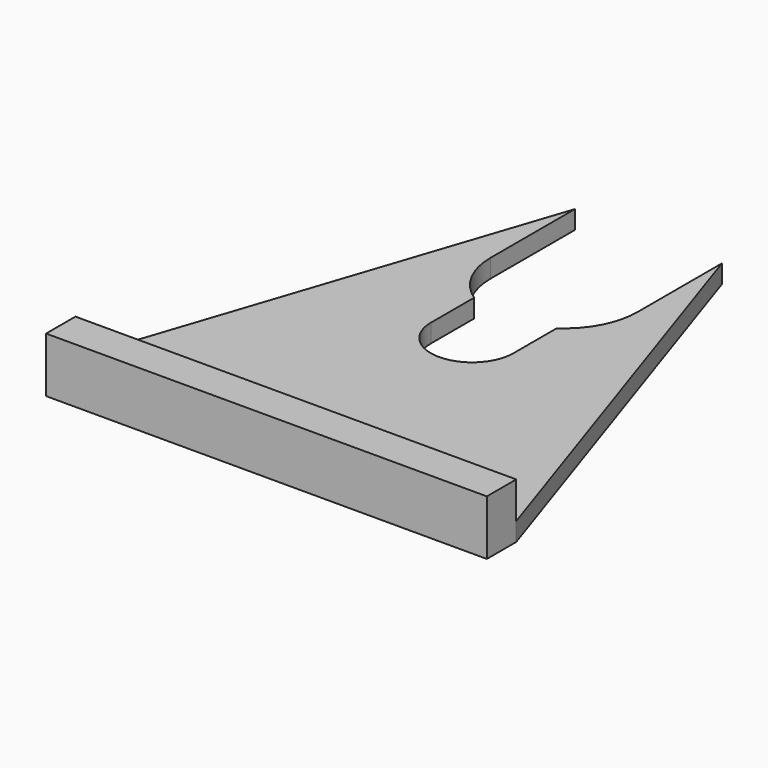
from build123d import *

# Parameters (mm, degrees)
F1_DEPTH = 1
F0_W     = 24
F0_H     = 2
F2_DEPTH = 3


with BuildPart() as f1:
    # F0 (on Top) → F1 (new body)
    with BuildSketch(Plane.XY):
        with BuildLine():
            Line((-12, 0), (12, 0))
            Line((12, 0), (4, 24))
            Line((4, 24), (4, 18.25))
            ThreePointArc((4, 18.25), (3.535534, 16.379171), (2.25, 14.942811))
            Line((2.25, 14.942811), (2.25, 12))
            ThreePointArc((2.25, 12), (0, 9.75), (-2.25, 12))
            Line((-2.25, 12), (-2.25, 14.942811))
            ThreePointArc((-2.25, 14.942811), (-3.535534, 16.379171), (-4, 18.25))
            Line((-4, 18.25), (-4, 24))
            Line((-4, 24), (-12, 0))
        make_face()
    extrude(amount=F1_DEPTH)

    # F0 (on Top) → F2 (join)
    with BuildSketch(Plane.XY):
        with Locations((0, -1)):
            Rectangle(F0_W, F0_H)
    extrude(amount=F2_DEPTH)


solid = f1.part
